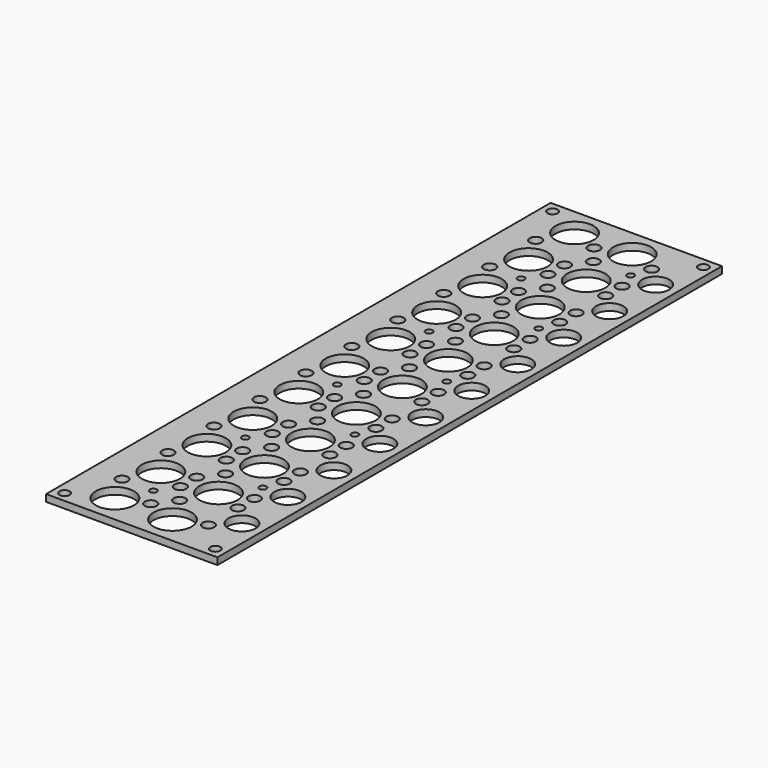
from build123d import *

# Parameters (mm, degrees)
F0_W     = 49.8404
F0_H     = 183.4444
F0_R     = 1.7272
F1_DEPTH = 2
F2_R     = 5.55625
F2_R_2   = 3.96875
F2_R_3   = 1.4732
F2_R_4   = 1.016
F3_DEPTH = 25


with BuildPart() as f1:
    # F0 (on Top) → F1 (new body)
    with BuildSketch(Plane.XY):
        with Locations((21.9202, 88.7222)):
            Rectangle(F0_W, F0_H)
        with Locations((5.8754, 13.5123)):
            Circle(F0_R, mode=Mode.SUBTRACT)
        with Locations((5.8754, 30.2256)):
            Circle(F0_R, mode=Mode.SUBTRACT)
        with Locations((18.542, 8.1355)):
            Circle(F0_R, mode=Mode.SUBTRACT)
        with Locations((18.542, 18.8891)):
            Circle(F0_R, mode=Mode.SUBTRACT)
        with Locations((18.542, 24.8488)):
            Circle(F0_R, mode=Mode.SUBTRACT)
        with Locations((18.542, 35.6024)):
            Circle(F0_R, mode=Mode.SUBTRACT)
        with Locations((18.542, 41.5621)):
            Circle(F0_R, mode=Mode.SUBTRACT)
        with Locations((5.8754, 46.9389)):
            Circle(F0_R, mode=Mode.SUBTRACT)
        with Locations((5.8754, 63.6522)):
            Circle(F0_R, mode=Mode.SUBTRACT)
        with Locations((5.8754, 80.3655)):
            Circle(F0_R, mode=Mode.SUBTRACT)
        with Locations((18.542, 52.3157)):
            Circle(F0_R, mode=Mode.SUBTRACT)
        with Locations((18.542, 58.2754)):
            Circle(F0_R, mode=Mode.SUBTRACT)
        with Locations((18.542, 69.029)):
            Circle(F0_R, mode=Mode.SUBTRACT)
        with Locations((18.542, 74.9887)):
            Circle(F0_R, mode=Mode.SUBTRACT)
        with Locations((18.542, 85.7423)):
            Circle(F0_R, mode=Mode.SUBTRACT)
        with Locations((22.6394, 13.5123)):
            Circle(F0_R, mode=Mode.SUBTRACT)
        with Locations((22.6394, 30.2256)):
            Circle(F0_R, mode=Mode.SUBTRACT)
        with Locations((35.306, 8.1355)):
            Circle(F0_R, mode=Mode.SUBTRACT)
        with Locations((35.306, 18.8891)):
            Circle(F0_R, mode=Mode.SUBTRACT)
        with Locations((35.306, 24.8488)):
            Circle(F0_R, mode=Mode.SUBTRACT)
        with Locations((35.306, 35.6024)):
            Circle(F0_R, mode=Mode.SUBTRACT)
        with Locations((35.306, 41.5621)):
            Circle(F0_R, mode=Mode.SUBTRACT)
        with Locations((22.6394, 46.9389)):
            Circle(F0_R, mode=Mode.SUBTRACT)
        with Locations((22.6394, 63.6522)):
            Circle(F0_R, mode=Mode.SUBTRACT)
        with Locations((22.6394, 80.3655)):
            Circle(F0_R, mode=Mode.SUBTRACT)
        with Locations((35.306, 52.3157)):
            Circle(F0_R, mode=Mode.SUBTRACT)
        with Locations((35.306, 58.2754)):
            Circle(F0_R, mode=Mode.SUBTRACT)
        with Locations((35.306, 69.029)):
            Circle(F0_R, mode=Mode.SUBTRACT)
        with Locations((35.306, 74.9887)):
            Circle(F0_R, mode=Mode.SUBTRACT)
        with Locations((35.306, 85.7423)):
            Circle(F0_R, mode=Mode.SUBTRACT)
        with Locations((5.8754, 97.0788)):
            Circle(F0_R, mode=Mode.SUBTRACT)
        with Locations((5.8754, 113.7921)):
            Circle(F0_R, mode=Mode.SUBTRACT)
        with Locations((5.8754, 130.5054)):
            Circle(F0_R, mode=Mode.SUBTRACT)
        with Locations((18.542, 91.702)):
            Circle(F0_R, mode=Mode.SUBTRACT)
        with Locations((18.542, 102.4556)):
            Circle(F0_R, mode=Mode.SUBTRACT)
        with Locations((18.542, 108.4153)):
            Circle(F0_R, mode=Mode.SUBTRACT)
        with Locations((18.542, 119.1689)):
            Circle(F0_R, mode=Mode.SUBTRACT)
        with Locations((18.542, 125.1286)):
            Circle(F0_R, mode=Mode.SUBTRACT)
        with Locations((5.8754, 147.2187)):
            Circle(F0_R, mode=Mode.SUBTRACT)
        with Locations((5.8754, 163.932)):
            Circle(F0_R, mode=Mode.SUBTRACT)
        with Locations((18.542, 135.8822)):
            Circle(F0_R, mode=Mode.SUBTRACT)
        with Locations((18.542, 141.8419)):
            Circle(F0_R, mode=Mode.SUBTRACT)
        with Locations((18.542, 152.5955)):
            Circle(F0_R, mode=Mode.SUBTRACT)
        with Locations((18.542, 158.5552)):
            Circle(F0_R, mode=Mode.SUBTRACT)
        with Locations((18.542, 169.3088)):
            Circle(F0_R, mode=Mode.SUBTRACT)
        with Locations((22.6394, 97.0788)):
            Circle(F0_R, mode=Mode.SUBTRACT)
        with Locations((22.6394, 113.7921)):
            Circle(F0_R, mode=Mode.SUBTRACT)
        with Locations((22.6394, 130.5054)):
            Circle(F0_R, mode=Mode.SUBTRACT)
        with Locations((35.306, 91.702)):
            Circle(F0_R, mode=Mode.SUBTRACT)
        with Locations((35.306, 102.4556)):
            Circle(F0_R, mode=Mode.SUBTRACT)
        with Locations((35.306, 108.4153)):
            Circle(F0_R, mode=Mode.SUBTRACT)
        with Locations((35.306, 119.1689)):
            Circle(F0_R, mode=Mode.SUBTRACT)
        with Locations((35.306, 125.1286)):
            Circle(F0_R, mode=Mode.SUBTRACT)
        with Locations((22.6394, 147.2187)):
            Circle(F0_R, mode=Mode.SUBTRACT)
        with Locations((22.6394, 163.932)):
            Circle(F0_R, mode=Mode.SUBTRACT)
        with Locations((35.306, 135.8822)):
            Circle(F0_R, mode=Mode.SUBTRACT)
        with Locations((35.306, 141.8419)):
            Circle(F0_R, mode=Mode.SUBTRACT)
        with Locations((35.306, 152.5955)):
            Circle(F0_R, mode=Mode.SUBTRACT)
        with Locations((35.306, 158.5552)):
            Circle(F0_R, mode=Mode.SUBTRACT)
        with Locations((35.306, 169.3088)):
            Circle(F0_R, mode=Mode.SUBTRACT)
    extrude(amount=F1_DEPTH)

    # F2 (on face) → F3 (cut)
    with BuildSketch(Plane.XY.offset(2)):
        with Locations((10.5, 21.86895)):
            Circle(F2_R)
        with Locations((40.764, 113.7921)):
            Circle(F2_R_2)
        with Locations((10.5, 138.86205)):
            Circle(F2_R)
        with Locations((27.264, 155.57535)):
            Circle(F2_R)
        with Locations((40.764, 97.0788)):
            Circle(F2_R_2)
        with Locations((27.264, 122.14875)):
            Circle(F2_R)
        with Locations((27.264, 38.58225)):
            Circle(F2_R)
        with Locations((10.5, 155.57535)):
            Circle(F2_R)
        with Locations((40.764, 147.2187)):
            Circle(F2_R_2)
        with Locations((10.5, 105.43545)):
            Circle(F2_R)
        with Locations((27.264, 105.43545)):
            Circle(F2_R)
        with Locations((10.5, 88.72215)):
            Circle(F2_R)
        with Locations((27.264, 88.72215)):
            Circle(F2_R)
        with Locations((10.5, 122.14875)):
            Circle(F2_R)
        with Locations((40.764, 130.5054)):
            Circle(F2_R_2)
        with Locations((27.264, 172.28865)):
            Circle(F2_R)
        with Locations((10.5, 5.15565)):
            Circle(F2_R)
        with Locations((27.264, 5.15565)):
            Circle(F2_R)
        with Locations((27.264, 21.86895)):
            Circle(F2_R)
        with Locations((40.764, 13.5123)):
            Circle(F2_R_2)
        with Locations((27.264, 55.29555)):
            Circle(F2_R)
        with Locations((40.764, 46.9389)):
            Circle(F2_R_2)
        with Locations((10.5, 38.58225)):
            Circle(F2_R)
        with Locations((40.764, 30.2256)):
            Circle(F2_R_2)
        with Locations((40.764, 63.6522)):
            Circle(F2_R_2)
        with Locations((10.5, 172.28865)):
            Circle(F2_R)
        with Locations((27.264, 72.00885)):
            Circle(F2_R)
        with Locations((10.5, 55.29555)):
            Circle(F2_R)
        with Locations((40.764, 80.3655)):
            Circle(F2_R_2)
        with Locations((27.264, 138.86205)):
            Circle(F2_R)
        with Locations((10.5, 72.00885)):
            Circle(F2_R)
        with Locations((40.764, 163.932)):
            Circle(F2_R_2)
        with Locations((43.8404, 0)):
            Circle(F2_R_3)
        with Locations((0, 177.4444)):
            Circle(F2_R_3)
        with Locations((15, 13.5123)):
            Circle(F2_R_4)
        with Locations((33.5, 30.2256)):
            Circle(F2_R_4)
        with Locations((15, 46.9389)):
            Circle(F2_R_4)
        with Locations((33.5, 63.6522)):
            Circle(F2_R_4)
        with Locations((15, 80.3655)):
            Circle(F2_R_4)
        with Locations((33.5, 97.0788)):
            Circle(F2_R_4)
        with Locations((15, 113.7921)):
            Circle(F2_R_4)
        with Locations((33.5, 130.5054)):
            Circle(F2_R_4)
        with Locations((33.5, 163.932)):
            Circle(F2_R_4)
        with Locations((15, 147.2187)):
            Circle(F2_R_4)
        Circle(F2_R_3)
        with Locations((43.8404, 177.4444)):
            Circle(F2_R_3)
    extrude(amount=-F3_DEPTH, mode=Mode.SUBTRACT)


solid = f1.part
